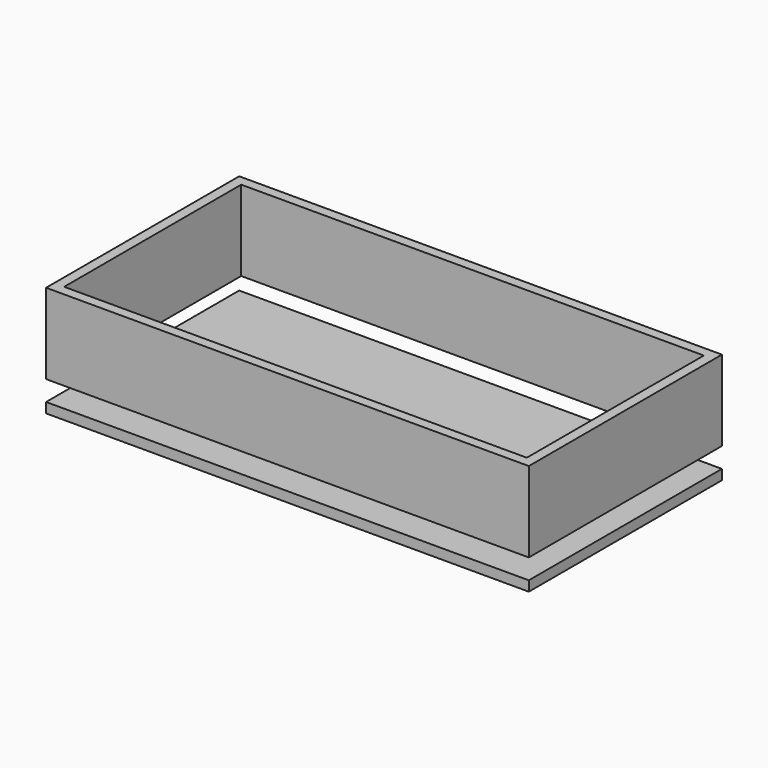
from build123d import *

# Parameters (mm, degrees)
F0_W     = 609.6
F0_H     = 304.8
F1_DEPTH = 12.7
F3_W     = 584.2
F3_H     = 12.7
F4_DEPTH = 101.6


with BuildPart() as f1:
    # F0 (on Top) → F1 (new body)
    with BuildSketch(Plane.XY):
        with Locations((304.8, 152.4)):
            Rectangle(F0_W, F0_H)
    extrude(amount=F1_DEPTH)


with BuildPart() as f4:
    # F3 (on offset) → F4 (new body)
    with BuildSketch(Plane.XY.offset(38.1)):
        with Locations((304.8, 6.35)):
            Rectangle(F3_W, F3_H)
        with Locations((304.8, 298.45)):
            Rectangle(F3_W, F3_H)
        Polygon((0, 304.8), (0, 0), (12.7, 0), (12.7, 12.7), (12.7, 292.1), (12.7, 304.8), align=None)
        Polygon((596.9, 12.7), (596.9, 0), (609.6, 0), (609.6, 304.8), (596.9, 304.8), (596.9, 292.1), align=None)
    extrude(amount=F4_DEPTH)


solid = Compound([f1.part, f4.part])
